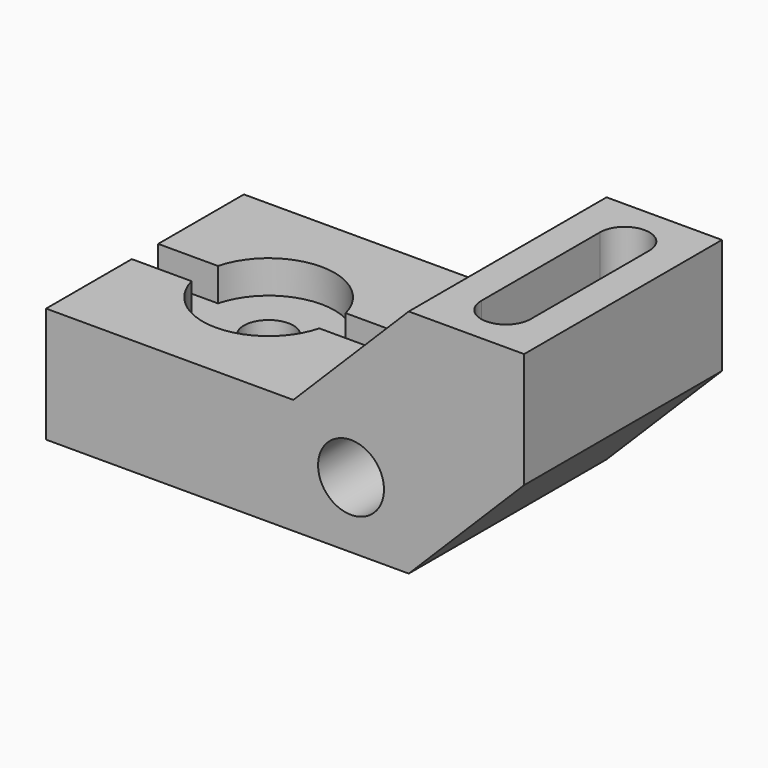
from build123d import *

# Parameters (mm, degrees)
F1_DEPTH       = 76.2
F3_D           = 15.24
F3_CBORE_D     = 40.64
F3_CBORE_DEPTH = 10.16
F5_D           = 20.32
F7_DEPTH       = 27.94
F9_DEPTH       = 10.16


with BuildPart() as f1:
    # F0 (on Front) → F1 (new body)
    with BuildSketch(Plane.XZ):
        Polygon((0, 35.56), (0, 0), (111.76, 0), (147.32, 35.56), (147.32, 71.12), (111.76, 71.12), (76.2, 35.56), align=None)
    extrude(amount=F1_DEPTH)

    # F3 (through all)
    with Locations(Plane.XY.offset(35.56)):
        with Locations((38.1, -38.1)):
            CounterBoreHole(F3_D / 2, F3_CBORE_D / 2, F3_CBORE_DEPTH)

    # F5 (through all)
    with Locations(Plane.XZ.offset(76.2)):
        with Locations((93.98, 20.32)):
            Hole(F5_D / 2)

    # F6 (on face) → F7 (cut)
    with BuildSketch(Plane.XY.offset(71.12)):
        with BuildLine():
            Line((137.16, -60.96), (137.16, -15.24))
            ThreePointArc((137.16, -15.24), (129.54, -7.62), (121.92, -15.24))
            Line((121.92, -15.24), (121.92, -60.96))
            ThreePointArc((121.92, -60.96), (129.54, -68.58), (137.16, -60.96))
        make_face()
    extrude(amount=-F7_DEPTH, mode=Mode.SUBTRACT)

    # F8 (on face) → F9 (cut)
    with BuildSketch(Plane.XY.offset(35.56)):
        with BuildLine():
            Line((18.4252446013, -33.02), (0, -33.02))
            Line((0, -33.02), (0, -43.18))
            Line((0, -43.18), (18.4252446013, -43.18))
            ThreePointArc((18.4252446013, -43.18), (17.78, -38.1), (18.4252446013, -33.02))
        make_face()
        with BuildLine():
            Line((76.2, -33.02), (57.7747553987, -33.02))
            ThreePointArc((57.7747553987, -33.02), (58.2580434281, -35.5395927768), (58.42, -38.1))
            ThreePointArc((58.42, -38.1), (58.2580434281, -40.6604072232), (57.7747553987, -43.18))
            Line((57.7747553987, -43.18), (76.2, -43.18))
            Line((76.2, -43.18), (76.2, -33.02))
        make_face()
    extrude(amount=-F9_DEPTH, mode=Mode.SUBTRACT)


solid = f1.part
